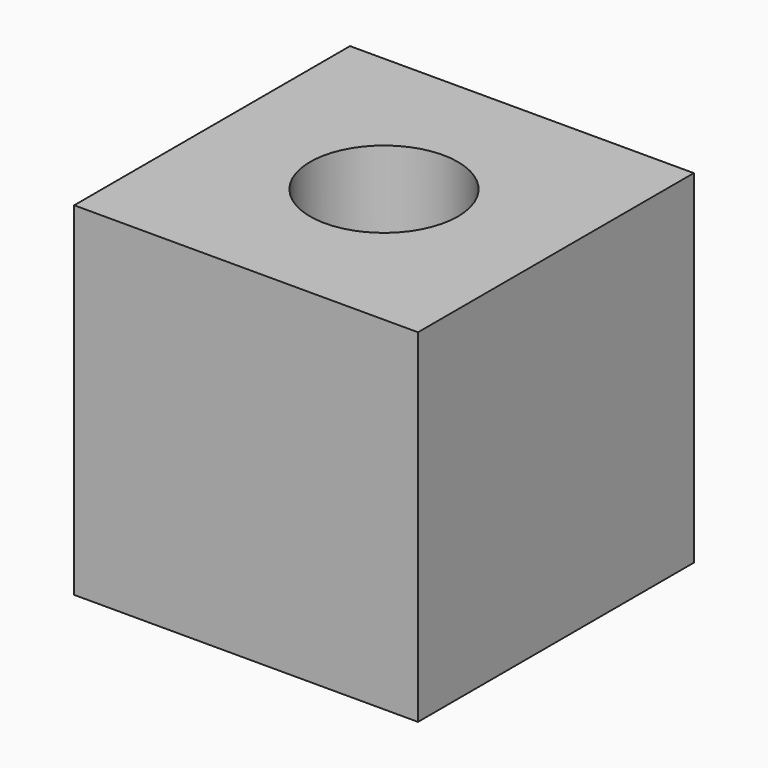
from build123d import *

# Parameters (mm, degrees)
F0_W     = 151.980818
F0_H     = 151.646004
F1_DEPTH = 76.2
F2_R     = 32.674685
F3_DEPTH = 151.647003


with BuildPart() as f1:
    # F0 (on Front) → F1 (new body, symmetric)
    with BuildSketch(Plane.XZ):
        Rectangle(F0_W, F0_H)
    extrude(amount=F1_DEPTH, both=True)

    # F2 (on face) → F3 (cut, through all)
    with BuildSketch(Plane(origin=(0, 0, -75.823002), x_dir=(1, 0, 0), z_dir=(0, 0, -1))):
        Circle(F2_R)
    extrude(amount=-F3_DEPTH, mode=Mode.SUBTRACT)


solid = f1.part
